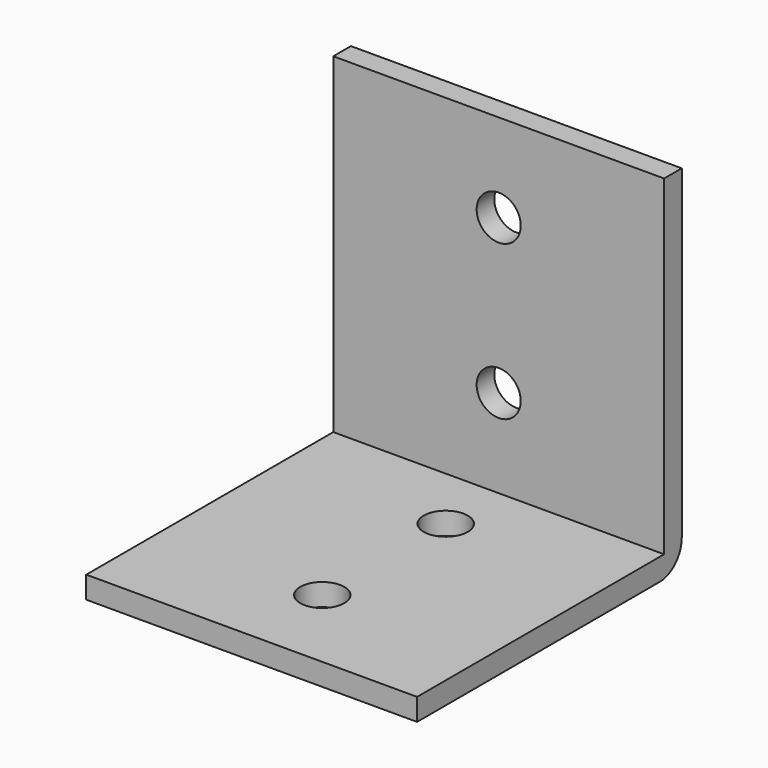
from build123d import *

# Parameters (mm, degrees)
F0_W     = 30
F0_H     = 30
F1_DEPTH = 2
F2_R     = 2
F3_DEPTH = 25
F2_W     = 30
F2_H     = 2
F4_DEPTH = 30
F5_R     = 2
F6_DEPTH = 25
F7_R     = 2.5


with BuildPart() as f1:
    # F0 (on Top) → F1 (new body)
    with BuildSketch(Plane.XY):
        Rectangle(F0_W, F0_H)
    extrude(amount=F1_DEPTH)

    # F2 (on face) → F3 (cut)
    with BuildSketch(Plane.XY.offset(2)):
        with Locations((0, 7)):
            Circle(F2_R)
        with Locations((0, -7)):
            Circle(F2_R)
    extrude(amount=-F3_DEPTH, mode=Mode.SUBTRACT)

    # F2 (on face) → F4 (join)
    with BuildSketch(Plane.XY.offset(2)):
        with Locations((0, 14)):
            Rectangle(F2_W, F2_H)
    extrude(amount=F4_DEPTH)

    # F5 (on face) → F6 (cut)
    with BuildSketch(Plane.XZ.offset(-13)):
        with Locations((0, 24)):
            Circle(F5_R)
        with Locations((0, 10)):
            Circle(F5_R)
    extrude(amount=-F6_DEPTH, mode=Mode.SUBTRACT)

    # F7
    f7_edges = [f1.edges().sort_by_distance(p)[0] for p in [
        (0, 15, 0),
    ]]
    fillet(f7_edges, radius=F7_R)


solid = f1.part
